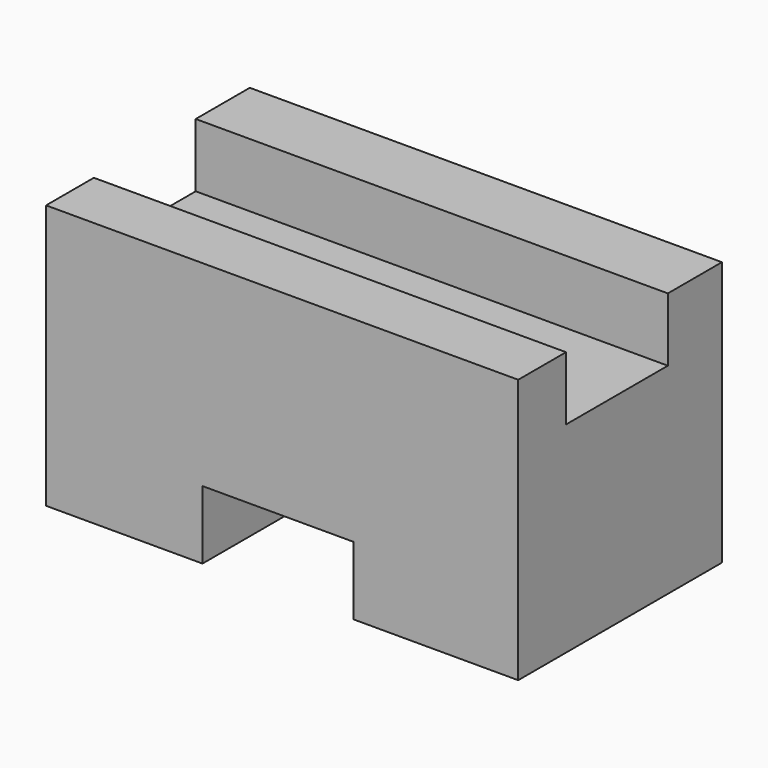
from build123d import *

# Parameters (mm, degrees)
F1_DEPTH = 25.4
F2_W     = 47.0980852842
F2_H     = 12.7
F3_DEPTH = 6.35


with BuildPart() as f1:
    # F0 (on Front) → F1 (new body)
    with BuildSketch(Plane.XZ):
        Polygon((0, 26.3862758875), (0, 0), (15.6047884375, 0), (15.6047884375, 6.8093617447), (30.6421294808, 6.8093617447), (30.6421294808, 0), (47.0980852842, 0), (47.0980852842, 26.3862758875), align=None)
    extrude(amount=-F1_DEPTH)

    # F2 (on face) → F3 (cut)
    with BuildSketch(Plane.XY.offset(26.3862758875)):
        with Locations((23.5490426421, 12.3081915848)):
            Rectangle(F2_W, F2_H)
    extrude(amount=-F3_DEPTH, mode=Mode.SUBTRACT)


solid = f1.part
